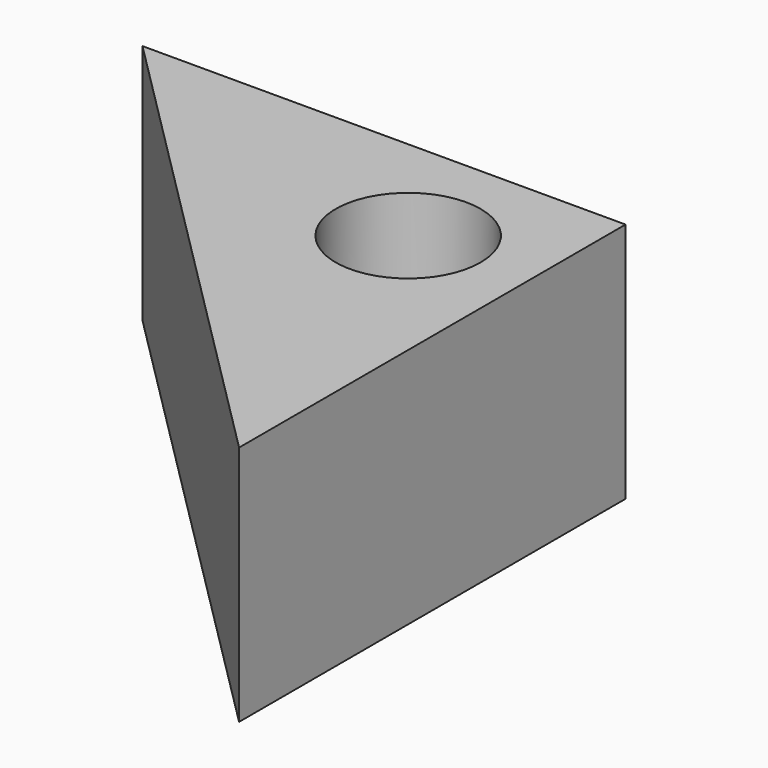
from build123d import *

# Parameters (mm, degrees)
F1_DEPTH = 7.5
F2_DEPTH = 2.5
F4_DEPTH = 25
F5_DEPTH = 3.5


with BuildPart() as f1:
    # F0 (on Top) → F1 (new body)
    with BuildSketch(Plane.XY):
        Polygon((0, -20), (0, 0), (-20, 0), align=None)
    extrude(amount=F1_DEPTH)

    # F1_face (on face) → F2 (join)
    with BuildSketch(Plane(origin=(-6.666667, -6.666667, 0), x_dir=(1, 0, 0), z_dir=(0, 0, -1))):
        Polygon((6.666667, -6.666667), (6.666667, 13.333333), (-13.333333, -6.666667), align=None)
    extrude(amount=F2_DEPTH)

    # F3 (on face) → F4 (cut)
    with BuildSketch(Plane(origin=(0, 0, -2.5), x_dir=(1, 0, 0), z_dir=(0, 0, -1))):
        with BuildLine():
            ThreePointArc((-2, 5), (-3.85195, 7.771639), (-7.12132, 7.12132))
            ThreePointArc((-7.12132, 7.12132), (-6.14805, 2.228361), (-2, 5))
        make_face()
    extrude(amount=-F4_DEPTH, mode=Mode.SUBTRACT)

    # F3 (on face) → F5 (cut)
    with BuildSketch(Plane(origin=(0, 0, -2.5), x_dir=(1, 0, 0), z_dir=(0, 0, -1))):
        Polygon((-3.77061, 9.588148), (-8.358757, 8.358757), (-9.588148, 3.77061), (-6.22939, 0.411852), (-1.641243, 1.641243), (-0.411852, 6.22939), align=None)
        with BuildLine():
            ThreePointArc((-2, 5), (-6.14805, 2.228361), (-7.12132, 7.12132))
            ThreePointArc((-7.12132, 7.12132), (-3.85195, 7.771639), (-2, 5))
        make_face(mode=Mode.SUBTRACT)
    extrude(amount=-F5_DEPTH, mode=Mode.SUBTRACT)


solid = f1.part
